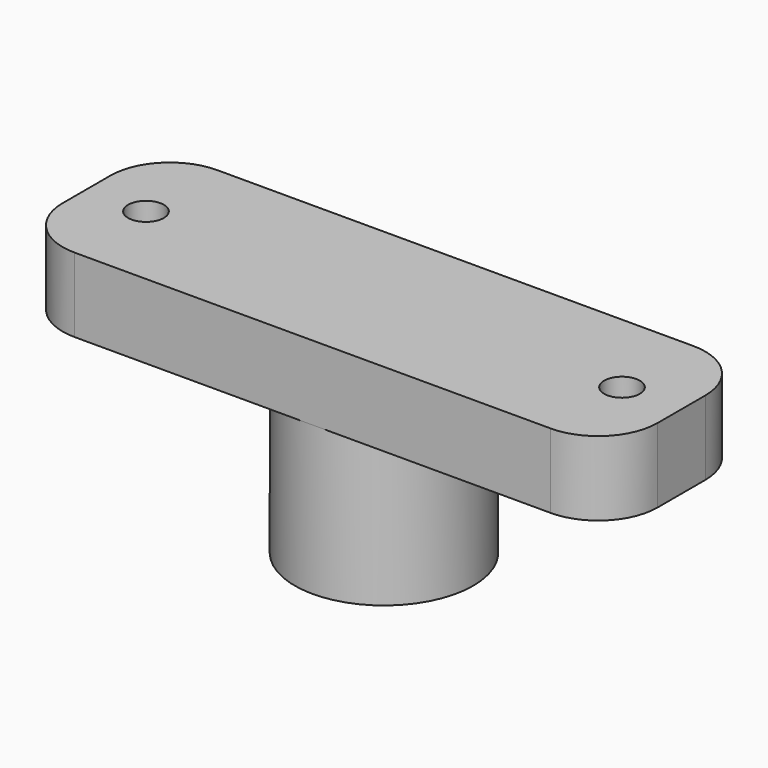
from build123d import *

# Parameters (mm, degrees)
F0_W     = 25.4
F0_H     = 7.62
F1_DEPTH = 3.175
F2_R     = 2.54
F3_R     = 3.81
F3_R_2   = 3.175
F4_DEPTH = 6.35
F5_R     = 0.762
F6_DEPTH = 9.526


with BuildPart() as f1:
    # F0 (on Top) → F1 (new body)
    with BuildSketch(Plane.XY):
        Rectangle(F0_W, F0_H)
    extrude(amount=F1_DEPTH)

    # F2
    f2_edges = [f1.edges().sort_by_distance(p)[0] for p in [
        (-12.7, -3.81, 1.5875),
        (12.7, -3.81, 1.5875),
        (12.7, 3.81, 1.5875),
        (-12.7, 3.81, 1.5875),
    ]]
    fillet(f2_edges, radius=F2_R)

    # F3 (on face) → F4 (join)
    with BuildSketch(Plane(origin=(0, 0, 0), x_dir=(1, 0, 0), z_dir=(0, 0, -1))):
        Circle(F3_R)
        Circle(F3_R_2, mode=Mode.SUBTRACT)
    extrude(amount=F4_DEPTH)

    # F5 (on face) → F6 (cut, through all)
    with BuildSketch(Plane.XY.offset(3.175)):
        with Locations((-10.16, 0)):
            Circle(F5_R)
        with Locations((10.16, 0)):
            Circle(F5_R)
    extrude(amount=-F6_DEPTH, mode=Mode.SUBTRACT)


solid = f1.part
